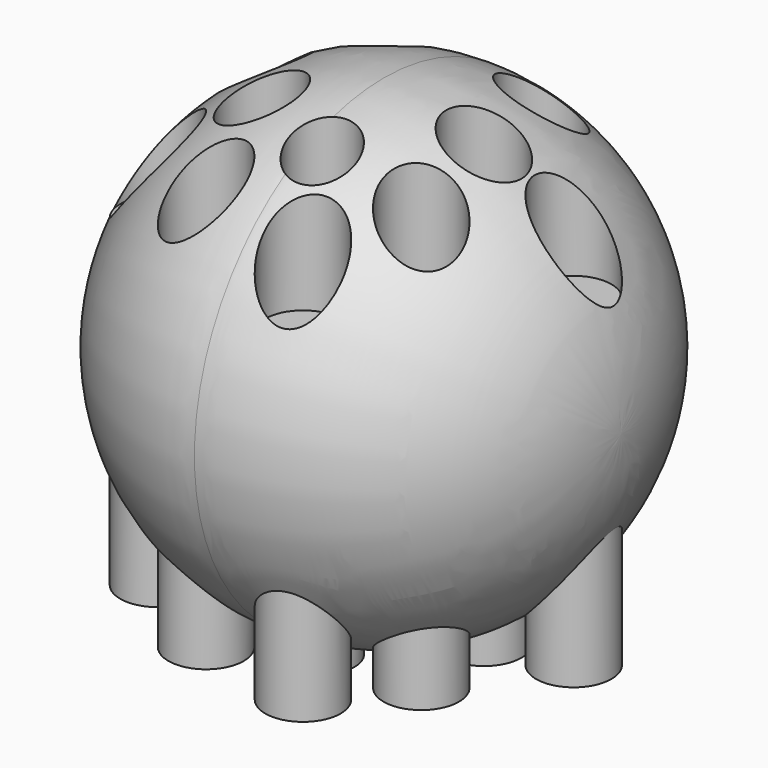
from build123d import *

# Parameters (mm, degrees)
F2_R     = 4.445
F2_R_2   = 3.840306
F3_DEPTH = 101.6
F4_DEPTH = 38.1


with BuildPart() as f1:
    # F0 (on Front) → F1 (revolve)
    with BuildSketch(Plane.XZ):
        with BuildLine():
            ThreePointArc((-8.543782, 54.934682), (-28.300345, 46.751245), (-36.483782, 26.994682))
            Line((-36.483782, 26.994682), (-8.543782, 26.994682))
            Line((-8.543782, 26.994682), (-8.543782, 54.934682))
        make_face()
        with BuildLine():
            Line((-8.543782, 54.934682), (-8.543782, 26.994682))
            Line((-8.543782, 26.994682), (19.396218, 26.994682))
            ThreePointArc((19.396218, 26.994682), (11.212782, 46.751245), (-8.543782, 54.934682))
        make_face()
    revolve(axis=Axis((-8.543782, 0, 26.994682), (1, 0, 0)))

    # F2 (on Top) → F3 (cut)
    with BuildSketch(Plane.XY):
        with Locations((3.240881, 0)):
            Circle(F2_R)
        with Locations((-27.532602, -9.575023)):
            Circle(F2_R)
        with Locations((-16.328161, -16.4832)):
            Circle(F2_R)
        with Locations((-24.52568, 2.412362)):
            Circle(F2_R)
        with Locations((-17.104701, 11.007184)):
            Circle(F2_R)
        with Locations((0, 12.518189)):
            Circle(F2_R)
        with Locations((-18.176967, -5.943622)):
            Circle(F2_R)
        with Locations((4.221634, -10.453568)):
            Circle(F2_R)
        with Locations((12.353983, 1.851886)):
            Circle(F2_R)
        with Locations((-7.01581, -11.005979)):
            Circle(F2_R_2)
        with Locations((-2.814422, -19.097865)):
            Circle(F2_R)
    extrude(amount=F3_DEPTH, mode=Mode.SUBTRACT)

    # F2 (on Top) → F4 (join)
    with BuildSketch(Plane.XY):
        with Locations((3.240881, 0)):
            Circle(F2_R)
        with Locations((-27.532602, -9.575023)):
            Circle(F2_R)
        with Locations((-16.328161, -16.4832)):
            Circle(F2_R)
        with Locations((-24.52568, 2.412362)):
            Circle(F2_R)
        with Locations((-17.104701, 11.007184)):
            Circle(F2_R)
        with Locations((0, 12.518189)):
            Circle(F2_R)
        with Locations((4.221634, -10.453568)):
            Circle(F2_R)
        with Locations((12.353983, 1.851886)):
            Circle(F2_R)
        with Locations((-2.814422, -19.097865)):
            Circle(F2_R)
        with Locations((-18.176967, -5.943622)):
            Circle(F2_R)
        with Locations((-7.01581, -11.005979)):
            Circle(F2_R_2)
    extrude(amount=F4_DEPTH)


solid = f1.part
